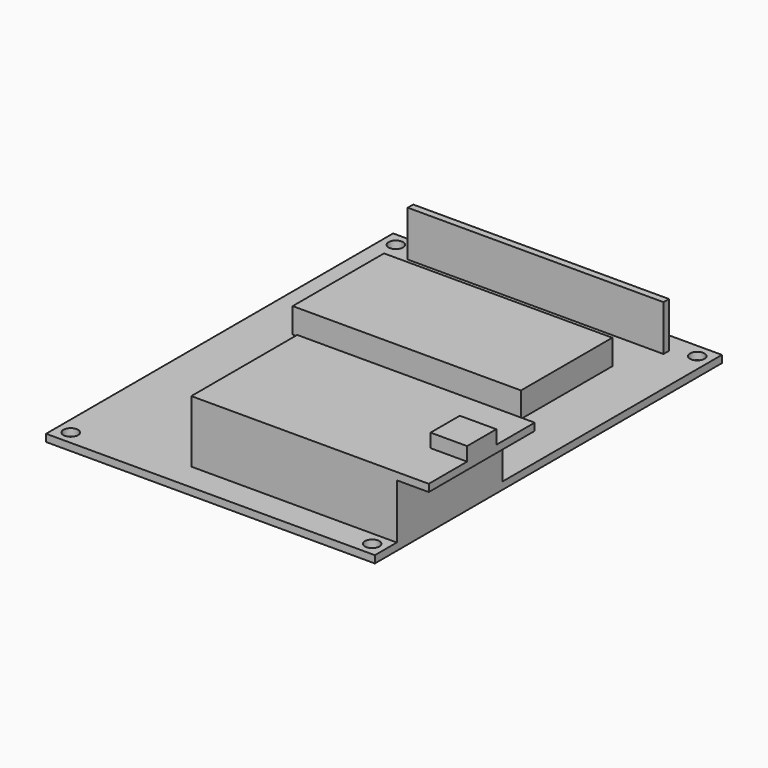
from build123d import *

# Parameters (mm, degrees)
SKETCH_W     = 72
SKETCH_H     = 95
PAD_DEPTH    = 1.6
SKETCH001_R  = 1.6
POCKET_DEPTH = 1.601
SKETCH006_W  = 45
SKETCH006_H  = 29
PAD004_DEPTH = 12
SKETCH005_W  = 52
SKETCH005_H  = 29
PAD005_DEPTH = 1.6
SKETCH011_W  = 8
SKETCH011_H  = 8
PAD008_DEPTH = 3
SKETCH013_W  = 56
SKETCH013_H  = 1.5
PAD010_DEPTH = 10
SKETCH014_W  = 50
SKETCH014_H  = 25
PAD011_DEPTH = 5.5


with BuildPart() as part:
    # Sketch → Pad (new body)
    with BuildSketch(Plane.XY):
        with Locations((36, 47.5)):
            Rectangle(SKETCH_W, SKETCH_H)
    extrude(amount=PAD_DEPTH)

    # Sketch001 (on Face6 of Pad) → Pocket (cut, through all)
    with BuildSketch(Plane.XY.offset(1.6)):
        with Locations((3, 3)):
            Circle(SKETCH001_R)
        with Locations((69, 3)):
            Circle(SKETCH001_R)
        with Locations((69, 92)):
            Circle(SKETCH001_R)
        with Locations((3, 92)):
            Circle(SKETCH001_R)
    extrude(amount=-POCKET_DEPTH, mode=Mode.SUBTRACT)

    # Sketch006 (on Face5 of Pocket) → Pad004 (join)
    with BuildSketch(Plane.XY.offset(1.6)):
        with Locations((49.5, 20.5)):
            Rectangle(SKETCH006_W, SKETCH006_H)
    extrude(amount=PAD004_DEPTH)

    # Sketch005 (on Face5 of Pocket) → Pad005 (join)
    with BuildSketch(Plane.XY.offset(13.6)):
        with Locations((53, 20.5)):
            Rectangle(SKETCH005_W, SKETCH005_H)
    extrude(amount=PAD005_DEPTH)

    # Sketch011 (on Face20 of Pad005) → Pad008 (join)
    with BuildSketch(Plane.XY.offset(15.2)):
        with Locations((75, 20.5)):
            Rectangle(SKETCH011_W, SKETCH011_H)
    extrude(amount=PAD008_DEPTH)

    # Sketch013 (on Face5 of Pad008) → Pad010 (join)
    with BuildSketch(Plane.XY.offset(1.6)):
        with Locations((36, 89.75)):
            Rectangle(SKETCH013_W, SKETCH013_H)
    extrude(amount=PAD010_DEPTH)

    # Sketch014 (on Face5 of Pad010) → Pad011 (join)
    with BuildSketch(Plane.XY.offset(1.6)):
        with Locations((35, 67.5)):
            Rectangle(SKETCH014_W, SKETCH014_H)
    extrude(amount=PAD011_DEPTH)


solid = part.part
